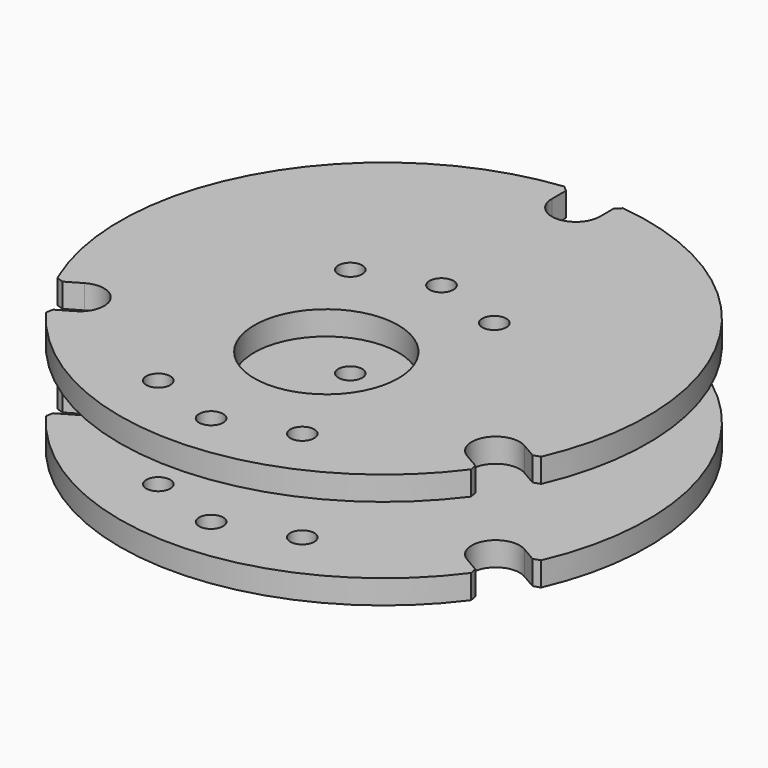
from build123d import *

# Parameters (mm, degrees)
F1_START = 7
F0_R     = 2.5
F0_R_2   = 15
F1_DEPTH = 5
F2_START = -7
F2_DEPTH = 5


with BuildPart() as f1:
    # F0 (on Top) → F1 (new body)
    with BuildSketch(Plane.XY.offset(F1_START)):
        with BuildLine():
            Line((48.9758001545, -7.5026887111), (50.3920186759, -7.0373422574))
            ThreePointArc((50.3920186759, -7.0373422574), (47.6313972081, 42.5), (6.1111111111, 69.65943945))
            Line((6.1111111111, 69.65943945), (5, 68.66563146))
            Line((5, 68.66563146), (5, 65))
            ThreePointArc((5, 65), (0, 60), (-5, 65))
            Line((-5, 65), (-5, 68.66563146))
            Line((-5, 68.66563146), (-6.1111111111, 69.65943945))
            ThreePointArc((-6.1111111111, 69.65943945), (-47.3563637716, 42.9709637004), (-50.8191344463, -6.0336771423))
            ThreePointArc((-50.8191344463, -6.0336771423), (-50.6080647229, -6.5365685522), (-50.3920186759, -7.0373422574))
            Line((-50.3920186759, -7.0373422574), (-48.9758001545, -7.5026887111))
            Line((-48.9758001545, -7.5026887111), (-45.8012701892, -5.6698729811))
            ThreePointArc((-45.8012701892, -5.6698729811), (-38.9711431703, -7.5), (-40.8012701892, -14.3301270189))
            Line((-40.8012701892, -14.3301270189), (-43.9758001545, -16.1629427489))
            Line((-43.9758001545, -16.1629427489), (-44.2809075648, -17.6220971926))
            ThreePointArc((-44.2809075648, -17.6220971926), (0, -40), (44.2809075648, -17.6220971926))
            Line((44.2809075648, -17.6220971926), (43.9758001545, -16.1629427489))
            Line((43.9758001545, -16.1629427489), (40.8012701892, -14.3301270189))
            ThreePointArc((40.8012701892, -14.3301270189), (38.9711431703, -7.5), (45.8012701892, -5.6698729811))
            Line((45.8012701892, -5.6698729811), (48.9758001545, -7.5026887111))
        make_face()
        with Locations((0, -30)):
            Circle(F0_R, mode=Mode.SUBTRACT)
        with Locations((-15, -25)):
            Circle(F0_R, mode=Mode.SUBTRACT)
        Circle(F0_R_2, mode=Mode.SUBTRACT)
        with Locations((15, -25)):
            Circle(F0_R, mode=Mode.SUBTRACT)
        with Locations((-15, 25)):
            Circle(F0_R, mode=Mode.SUBTRACT)
        with Locations((0, 30)):
            Circle(F0_R, mode=Mode.SUBTRACT)
        with Locations((15, 25)):
            Circle(F0_R, mode=Mode.SUBTRACT)
    extrude(amount=F1_DEPTH)


with BuildPart() as f2:
    # F0 (on Top) → F2 (new body)
    with BuildSketch(Plane.XY.offset(F2_START)):
        with BuildLine():
            Line((48.9758001545, -7.5026887111), (50.3920186759, -7.0373422574))
            ThreePointArc((50.3920186759, -7.0373422574), (47.6313972081, 42.5), (6.1111111111, 69.65943945))
            Line((6.1111111111, 69.65943945), (5, 68.66563146))
            Line((5, 68.66563146), (5, 65))
            ThreePointArc((5, 65), (0, 60), (-5, 65))
            Line((-5, 65), (-5, 68.66563146))
            Line((-5, 68.66563146), (-6.1111111111, 69.65943945))
            ThreePointArc((-6.1111111111, 69.65943945), (-47.3563637716, 42.9709637004), (-50.8191344463, -6.0336771423))
            ThreePointArc((-50.8191344463, -6.0336771423), (-50.6080647229, -6.5365685522), (-50.3920186759, -7.0373422574))
            Line((-50.3920186759, -7.0373422574), (-48.9758001545, -7.5026887111))
            Line((-48.9758001545, -7.5026887111), (-45.8012701892, -5.6698729811))
            ThreePointArc((-45.8012701892, -5.6698729811), (-38.9711431703, -7.5), (-40.8012701892, -14.3301270189))
            Line((-40.8012701892, -14.3301270189), (-43.9758001545, -16.1629427489))
            Line((-43.9758001545, -16.1629427489), (-44.2809075648, -17.6220971926))
            ThreePointArc((-44.2809075648, -17.6220971926), (0, -40), (44.2809075648, -17.6220971926))
            Line((44.2809075648, -17.6220971926), (43.9758001545, -16.1629427489))
            Line((43.9758001545, -16.1629427489), (40.8012701892, -14.3301270189))
            ThreePointArc((40.8012701892, -14.3301270189), (38.9711431703, -7.5), (45.8012701892, -5.6698729811))
            Line((45.8012701892, -5.6698729811), (48.9758001545, -7.5026887111))
        make_face()
        with Locations((0, -30)):
            Circle(F0_R, mode=Mode.SUBTRACT)
        with Locations((-15, -25)):
            Circle(F0_R, mode=Mode.SUBTRACT)
        Circle(F0_R_2, mode=Mode.SUBTRACT)
        with Locations((15, -25)):
            Circle(F0_R, mode=Mode.SUBTRACT)
        with Locations((-15, 25)):
            Circle(F0_R, mode=Mode.SUBTRACT)
        with Locations((0, 30)):
            Circle(F0_R, mode=Mode.SUBTRACT)
        with Locations((15, 25)):
            Circle(F0_R, mode=Mode.SUBTRACT)
    extrude(amount=-F2_DEPTH)


solid = Compound([f1.part, f2.part])
